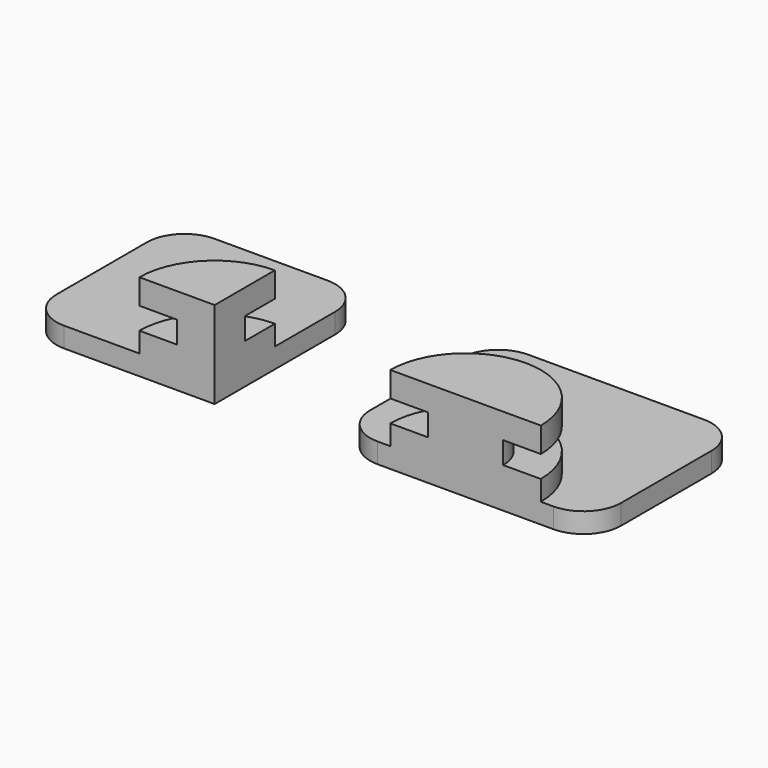
from build123d import *

# Parameters (mm, degrees)
F5_DEPTH = 1.6
F6_DEPTH = 3.2
F7_DEPTH = 6.95
F8_START = 4.95
F8_DEPTH = 2


with BuildPart() as f5:
    # F0 (on Top) → F5 (new body)
    with BuildSketch(Plane.XY):
        with BuildLine():
            Line((12, 0), (3, 0))
            ThreePointArc((3, 0), (0.8786796564, -0.8786796564), (0, -3))
            Line((0, -3), (0, -12))
            ThreePointArc((0, -12), (0.8786796564, -14.1213203436), (3, -15))
            Line((3, -15), (9, -15))
            ThreePointArc((9, -15), (10.7573593129, -10.7573593129), (15, -9))
            Line((15, -9), (15, -3))
            ThreePointArc((15, -3), (14.1213203436, -0.8786796564), (12, 0))
        make_face()
    extrude(amount=F5_DEPTH)

    # F0 (on Top) → F6 (join)
    with BuildSketch(Plane.XY):
        with BuildLine():
            Line((15, -12), (15, -9))
            ThreePointArc((15, -9), (10.7573593129, -10.7573593129), (9, -15))
            Line((9, -15), (12, -15))
            ThreePointArc((12, -15), (12.8786796564, -12.8786796564), (15, -12))
        make_face()
    extrude(amount=F6_DEPTH)

    # F0 (on Top) → F7 (join)
    with BuildSketch(Plane.XY):
        with BuildLine():
            Line((15, -15), (15, -12))
            ThreePointArc((15, -12), (12.8786796564, -12.8786796564), (12, -15))
            Line((12, -15), (15, -15))
        make_face()
    extrude(amount=F7_DEPTH)

    # F0 (on Top) → F8 (join)
    with BuildSketch(Plane.XY.offset(F8_START)):
        with BuildLine():
            Line((15, -12), (15, -9))
            ThreePointArc((15, -9), (10.7573593129, -10.7573593129), (9, -15))
            Line((9, -15), (12, -15))
            ThreePointArc((12, -15), (12.8786796564, -12.8786796564), (15, -12))
        make_face()
    extrude(amount=F8_DEPTH)


with BuildPart() as f5b:
    # F0 (on Top) → F5, piece 2 (new body)
    with BuildSketch(Plane.XY):
        with BuildLine():
            Line((42, 0), (28, 0))
            ThreePointArc((28, 0), (25.8786796564, -0.8786796564), (25, -3))
            Line((25, -3), (25, -12))
            ThreePointArc((25, -12), (25.8786796564, -14.1213203436), (28, -15))
            Line((28, -15), (29, -15))
            ThreePointArc((29, -15), (35, -9), (41, -15))
            Line((41, -15), (42, -15))
            ThreePointArc((42, -15), (44.1213203436, -14.1213203436), (45, -12))
            Line((45, -12), (45, -3))
            ThreePointArc((45, -3), (44.1213203436, -0.8786796564), (42, 0))
        make_face()
    extrude(amount=F5_DEPTH)

    # F0 (on Top) → F6, piece 2 (join)
    with BuildSketch(Plane.XY):
        with BuildLine():
            ThreePointArc((41, -15), (35, -9), (29, -15))
            Line((29, -15), (32, -15))
            ThreePointArc((32, -15), (35, -12), (38, -15))
            Line((38, -15), (41, -15))
        make_face()
    extrude(amount=F6_DEPTH)

    # F0 (on Top) → F7, piece 2 (join)
    with BuildSketch(Plane.XY):
        with BuildLine():
            ThreePointArc((38, -15), (35, -12), (32, -15))
            Line((32, -15), (38, -15))
        make_face()
    extrude(amount=F7_DEPTH)

    # F0 (on Top) → F8, piece 2 (join)
    with BuildSketch(Plane.XY.offset(F8_START)):
        with BuildLine():
            ThreePointArc((41, -15), (35, -9), (29, -15))
            Line((29, -15), (32, -15))
            ThreePointArc((32, -15), (35, -12), (38, -15))
            Line((38, -15), (41, -15))
        make_face()
    extrude(amount=F8_DEPTH)


solid = Compound([f5.part, f5b.part])
